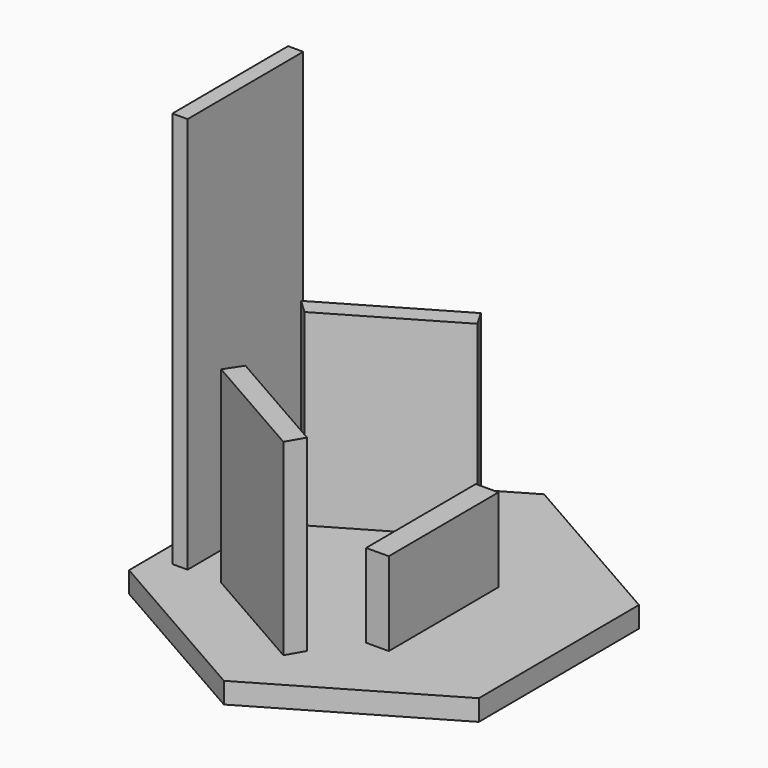
from build123d import *

# Parameters (mm, degrees)
F1_DEPTH = 100
F2_DEPTH = 5
F3_DEPTH = 50
F4_DEPTH = 25


with BuildPart() as f1:
    # F0 (on Top) → F1 (new body)
    with BuildSketch(Plane.XY):
        Polygon((-33.36327, 17.523126), (-37.003014, 17.552711), (-36.847473, -17.309527), (-33.207933, -17.293289), align=None)
    extrude(amount=F1_DEPTH)

    # F0 (on Top) → F2 (join)
    with BuildSketch(Plane.XY):
        Polygon((0.215048, -48.199569), (41.849575, -23.913548), (41.634527, 24.286021), (-0.215048, 48.199569), (-41.849575, 23.913548), (-41.634527, -24.286021), align=None)
        Polygon((2.437659, -33.173904), (-25.006169, -17.492041), (-22.380813, -13.510428), (4.799019, -29.041439), align=None, mode=Mode.SUBTRACT)
        Polygon((11.207818, 13.482378), (16.628671, 13.482378), (16.775963, -19.530714), (11.355217, -19.5549), align=None, mode=Mode.SUBTRACT)
        Polygon((-36.847473, -17.309527), (-37.003014, 17.552711), (-33.36327, 17.523126), (-33.207933, -17.293289), align=None, mode=Mode.SUBTRACT)
        Polygon((-27.306872, 10.376645), (-30.674437, 13.482378), (-1.310807, 30.610607), (0.895825, 26.827686), align=None, mode=Mode.SUBTRACT)
    extrude(amount=F2_DEPTH)

    # F0 (on Top) → F3 (join)
    with BuildSketch(Plane.XY):
        Polygon((-1.310807, 30.610607), (-30.674437, 13.482378), (-27.306872, 10.376645), (0.895825, 26.827686), align=None)
        Polygon((-22.380813, -13.510428), (-25.006169, -17.492041), (2.437659, -33.173904), (4.799019, -29.041439), align=None)
    extrude(amount=F3_DEPTH)

    # F0 (on Top) → F4 (join)
    with BuildSketch(Plane.XY):
        Polygon((16.775963, -19.530714), (16.628671, 13.482378), (11.207818, 13.482378), (11.355217, -19.5549), align=None)
    extrude(amount=F4_DEPTH)


solid = f1.part
